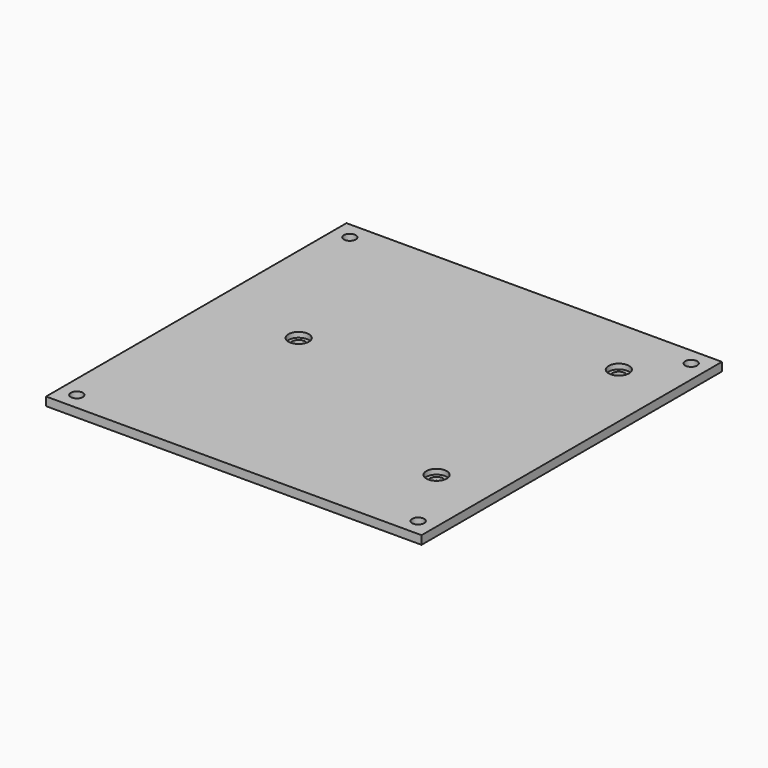
from build123d import *

# Parameters (mm, degrees)
F0_W     = 220
F0_H     = 220
F0_R     = 3.5
F1_DEPTH = 5
F2_R     = 3.75
F3_DEPTH = 5.001
F4_R     = 6
F5_DEPTH = 3


with BuildPart() as f1:
    # F0 (on Top) → F1 (new body)
    with BuildSketch(Plane.XY):
        Rectangle(F0_W, F0_H)
        with Locations((-100, -100)):
            Circle(F0_R, mode=Mode.SUBTRACT)
        with Locations((100, -100)):
            Circle(F0_R, mode=Mode.SUBTRACT)
        with Locations((-100, 100)):
            Circle(F0_R, mode=Mode.SUBTRACT)
        with Locations((100, 100)):
            Circle(F0_R, mode=Mode.SUBTRACT)
    extrude(amount=F1_DEPTH)

    # F2 (on face) → F3 (cut, through all)
    with BuildSketch(Plane.XY.offset(5)):
        with Locations((-56, 7.5)):
            Circle(F2_R)
        with Locations((78, 74.5)):
            Circle(F2_R)
        with Locations((78, -59)):
            Circle(F2_R)
    extrude(amount=-F3_DEPTH, mode=Mode.SUBTRACT)

    # F4 (on face) → F5 (cut)
    with BuildSketch(Plane.XY.offset(5)):
        with Locations((-56, 7.5)):
            Circle(F4_R)
        with Locations((78, 74.5)):
            Circle(F4_R)
        with Locations((78, -59)):
            Circle(F4_R)
    extrude(amount=-F5_DEPTH, mode=Mode.SUBTRACT)


solid = f1.part
